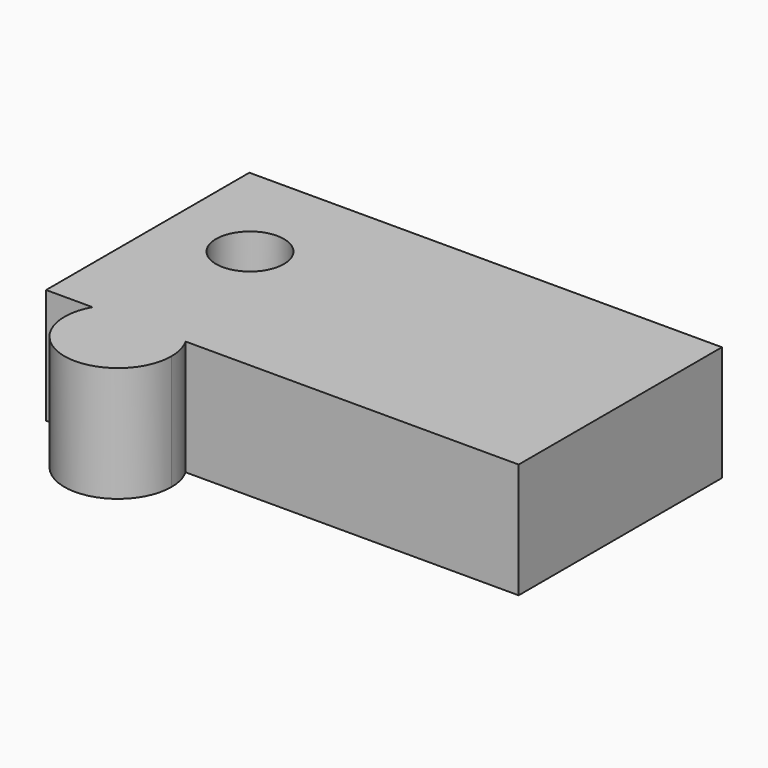
from build123d import *

# Parameters (mm, degrees)
F0_R     = 6.5968269578
F1_DEPTH = 22.352


with BuildPart() as f1:
    # F0 (on Top) → F1 (new body)
    with BuildSketch(Plane.XY):
        with BuildLine():
            Line((47.6751290262, 30.5301323533), (-44.0656580031, 30.5301323533))
            Line((-44.0656580031, 30.5301323533), (-44.0656580031, -18.7993422151))
            Line((-44.0656580031, -18.7993422151), (-35.0570031593, -18.7993422151))
            ThreePointArc((-35.0570031593, -18.7993422151), (-26.0182898492, -13.5278986256), (-16.979576539, -18.7993422151))
            Line((-16.979576539, -18.7993422151), (47.6751290262, -18.7993422151))
            Line((47.6751290262, -18.7993422151), (47.6751290262, 30.5301323533))
        make_face()
        with Locations((-27.8230253607, 10.3772366419)):
            Circle(F0_R, mode=Mode.SUBTRACT)
        with BuildLine():
            ThreePointArc((-16.979576539, -18.7993422151), (-26.0182898492, -13.5278986256), (-35.0570031593, -18.7993422151))
            Line((-35.0570031593, -18.7993422151), (-16.979576539, -18.7993422151))
        make_face()
        with BuildLine():
            Line((-16.979576539, -18.7993422151), (-35.0570031593, -18.7993422151))
            ThreePointArc((-35.0570031593, -18.7993422151), (-28.6621127296, -33.9554527674), (-15.6334252517, -23.9127632231))
            ThreePointArc((-15.6334252517, -23.9127632231), (-15.9756003048, -21.2689403426), (-16.979576539, -18.7993422151))
        make_face()
    extrude(amount=F1_DEPTH)


solid = f1.part
